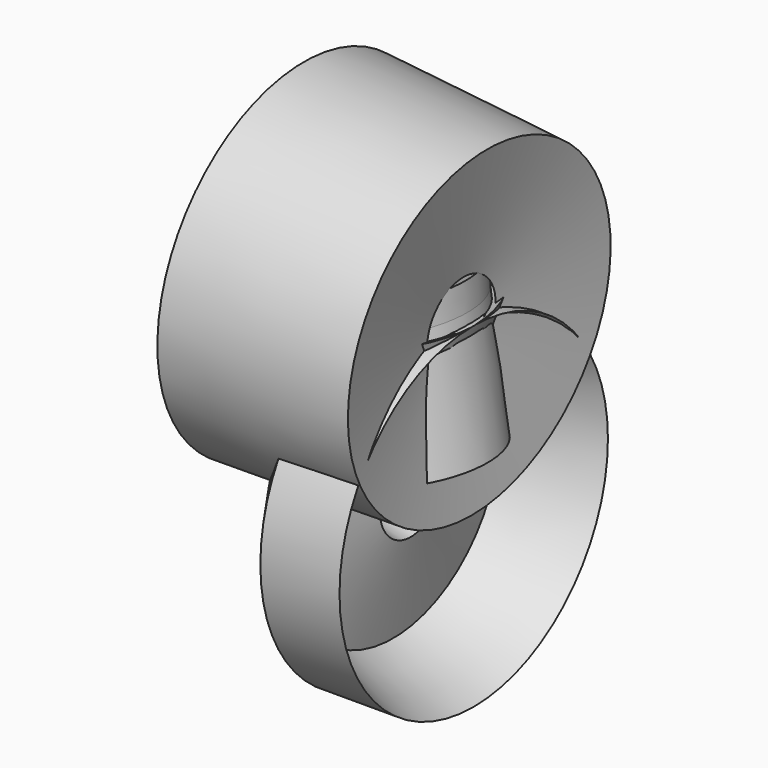
from build123d import *


with BuildPart() as f1:
    # F0 (on Front) → F1 (revolve)
    with BuildSketch(Plane.XZ):
        Polygon((-52.169516676, 64.0574839801), (-47.119487077, 47.4050678313), (-30.5562727153, -31.6985659301), (-22.2746655345, 61.3981261849), align=None)
    revolve(axis=Axis((12.4224144965, 0, 8.1388242543), (-0.1817555197, 0, 0.9833437502)))


with BuildPart() as f2:
    # F0 (on Front) → F2 (revolve)
    with BuildSketch(Plane.XZ):
        Polygon((-26.5582557768, 11.7084821686), (-9.7094671801, -29.1284099221), (17.9910827428, -21.9890922308), (6.8537462503, 38.2667407393), (57.9712577164, 59.9702633917), (7.7104633674, 59.9702633917), align=None)
    revolve(axis=Axis((-1.8562190235, 0, -46.5483441949), (1, 0, 0)))


with BuildPart() as f3:
    # F0 (on Front) → F3 (revolve)
    with BuildSketch(Plane.XZ):
        Polygon((-30.5562727153, -31.6985659301), (-60.2558329701, -46.5483441949), (56.5433949232, -46.5483441949), (48.8329343498, 30.841851607), (17.9910827428, -21.9890922308), (-9.7094671801, -29.1284099221), align=None)
    revolve(axis=Axis((-7.2821010835, 0, 60.6841947883), (0.9988681385, 0, -0.0475651332)))


with BuildPart() as f4:
    # F0 (on Front) → F4 (revolve)
    with BuildSketch(Plane.XZ):
        Polygon((17.9910827428, -21.9890922308), (48.8329343498, 30.841851607), (57.9712577164, 59.9702633917), (6.8537462503, 38.2667407393), align=None)
    revolve(axis=Axis((-26.4154691249, 0, 14.8497801274), (0.0886071518, 0, 0.9960666507)))


solid = Compound([f1.part, f2.part, f3.part, f4.part])
